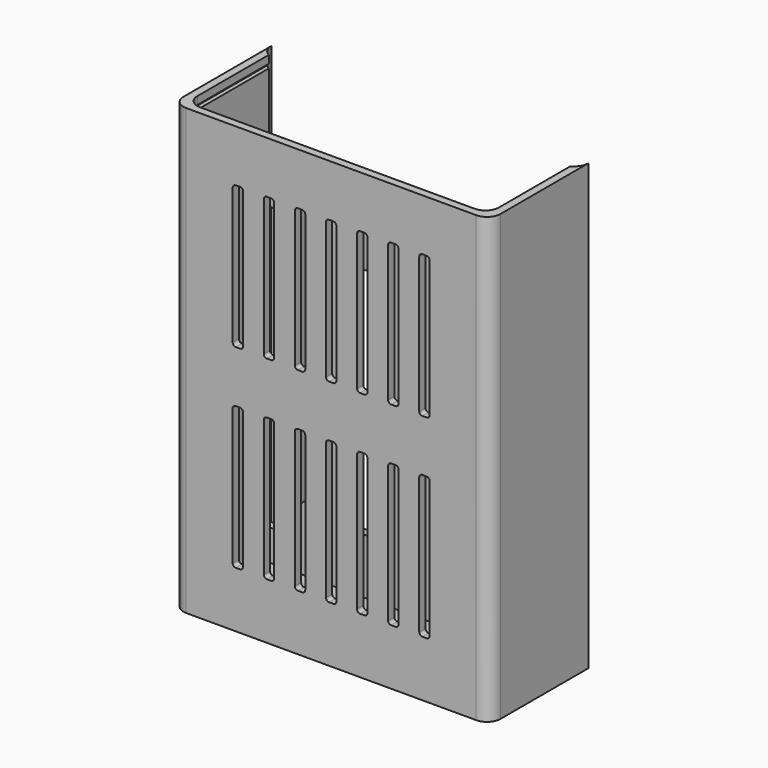
from build123d import *

# Parameters (mm, degrees)
PAD_DEPTH              = 85.8
POCKET_DEPTH           = 85
SKETCH002_W            = 7
SKETCH002_H            = 54.5
POCKET001_DEPTH        = 4.5
POCKET002_DEPTH        = 5
LINEARPATTERN_COUNT    = 7
LINEARPATTERN_PITCH    = 6
SKETCH004_W            = 58.2
SKETCH004_H            = 3
POCKET003_DEPTH        = 20
PAD001_DEPTH           = 6
LINEARPATTERN001_COUNT = 3
LINEARPATTERN001_PITCH = 18
POCKET004_DEPTH        = 5
PAD002_DEPTH           = 50
SKETCH009_W            = 19
SKETCH009_H            = 0.8
POCKET005_DEPTH        = 0.8
SKETCH010_W            = 19
SKETCH010_H            = 0.8
POCKET006_DEPTH        = 0.8


with BuildPart() as part:
    # Sketch → Pad (new body)
    with BuildSketch(Plane.XY.offset(-0.8)):
        with BuildLine():
            Line((-30.6, -5.8), (-30.6, -26.999987))
            ThreePointArc((-30.6, -26.999987), (-29.838478, -28.838464), (-28, -29.599987))
            Line((-28, -29.599987), (28, -29.599987))
            ThreePointArc((28, -29.599987), (29.838478, -28.838464), (30.6, -26.999987))
            Line((30.6, -26.999987), (30.6, -5.8))
            ThreePointArc((27.799996, -8.599987), (29.779893, -7.779892), (30.6, -5.8))
            Line((27.799996, -8.599987), (-27.799996, -8.599987))
            ThreePointArc((-30.6, -5.8), (-29.779893, -7.779892), (-27.799996, -8.599987))
        make_face()
    extrude(amount=PAD_DEPTH)

    # Sketch001 → Pocket (cut)
    with BuildSketch(Plane.XY.offset(85)):
        with BuildLine():
            Line((-29.1, -10.099987), (-29.1, -25.499987))
            ThreePointArc((-29.1, -25.499987), (-28.338478, -27.338464), (-26.5, -28.099987))
            Line((-26.5, -28.099987), (26.5, -28.099987))
            ThreePointArc((26.5, -28.099987), (28.338478, -27.338464), (29.1, -25.499987))
            Line((29.1, -25.499987), (29.1, -10.099987))
            Line((29.1, -10.099987), (-29.1, -10.099987))
        make_face()
    extrude(amount=-POCKET_DEPTH, mode=Mode.SUBTRACT)

    # Sketch002 → Pocket001 (cut, symmetric)
    with BuildSketch(Plane(origin=(0, -8.599987, -0.8), x_dir=(-1, 0, 0), z_dir=(0, 1, 0))):
        with Locations((24.9, 34.04)):
            Rectangle(SKETCH002_W, SKETCH002_H)
    extrude(amount=POCKET001_DEPTH, both=True, mode=Mode.SUBTRACT)

    # Sketch003 → Pocket002 (cut)
    with BuildSketch(Plane(origin=(0, -29.599987, -0.8), x_dir=(1, 0, 0), z_dir=(0, -1, 0))):
        with BuildLine():
            Line((17.572869, 75.790869), (18.427131, 75.790869))
            ThreePointArc((19, 75.218), (18.832211, 75.62308), (18.427131, 75.790869))
            Line((19, 75.218), (19, 48.8736))
            ThreePointArc((18.427131, 48.300731), (18.832211, 48.46852), (19, 48.8736))
            Line((18.427131, 48.300731), (17.572869, 48.300731))
            ThreePointArc((17, 48.8736), (17.167789, 48.46852), (17.572869, 48.300731))
            Line((17, 48.8736), (17, 75.218))
            ThreePointArc((17.572869, 75.790869), (17.167789, 75.62308), (17, 75.218))
        make_face()
        with BuildLine():
            Line((17.572869, 38.291469), (18.427131, 38.291469))
            ThreePointArc((19, 37.7186), (18.832211, 38.12368), (18.427131, 38.291469))
            Line((19, 37.7186), (19, 11.3742))
            ThreePointArc((18.427131, 10.801331), (18.832211, 10.96912), (19, 11.3742))
            Line((18.427131, 10.801331), (17.572869, 10.801331))
            ThreePointArc((17, 11.3742), (17.167789, 10.96912), (17.572869, 10.801331))
            Line((17, 11.3742), (17, 37.7186))
            ThreePointArc((17.572869, 38.291469), (17.167789, 38.12368), (17, 37.7186))
        make_face()
    pocket002 = extrude(amount=-POCKET002_DEPTH, mode=Mode.SUBTRACT)

    # LinearPattern: Pocket002 ×7
    with Locations(*[(-i * LINEARPATTERN_PITCH, 0, 0) for i in range(1, LINEARPATTERN_COUNT)]):
        add(pocket002, mode=Mode.SUBTRACT)

    # Sketch004 → Pocket003 (cut)
    with BuildSketch(Plane.XY.offset(85)):
        with Locations((0, -8.599987)):
            Rectangle(SKETCH004_W, SKETCH004_H)
    extrude(amount=-POCKET003_DEPTH, mode=Mode.SUBTRACT)

    # Sketch005 → Pad001 (new body)
    with BuildSketch(Plane(origin=(0, -10.099987, -0.8), x_dir=(1, 0, 0), z_dir=(0, -1, 0))):
        with BuildLine():
            Line((17.67, 56.57), (18.33, 56.57))
            ThreePointArc((18.9, 56), (18.733051, 56.403051), (18.33, 56.57))
            Line((18.9, 56), (18.9, 11.6228))
            ThreePointArc((18.33, 11.0528), (18.733051, 11.219749), (18.9, 11.6228))
            Line((18.33, 11.0528), (17.67, 11.0528))
            ThreePointArc((17.1, 11.6228), (17.266949, 11.219749), (17.67, 11.0528))
            Line((17.1, 11.6228), (17.1, 56))
            ThreePointArc((17.67, 56.57), (17.266949, 56.403051), (17.1, 56))
        make_face()
    pad001 = extrude(amount=-PAD001_DEPTH)

    # LinearPattern001: Pad001 ×3
    with Locations(*[(-i * LINEARPATTERN001_PITCH, 0, 0) for i in range(1, LINEARPATTERN001_COUNT)]):
        add(pad001)

    # Sketch006 → Pocket004 (cut)
    with BuildSketch(Plane(origin=(0, -8.599987, -0.8), x_dir=(-1, 0, 0), z_dir=(0, 1, 0))):
        with BuildLine():
            Line((-11.5, 56.5), (-7.5, 56.5))
            ThreePointArc((-5, 54), (-5.732233, 55.767767), (-7.5, 56.5))
            Line((-5, 54), (-5, 14))
            ThreePointArc((-7.5, 11.5), (-5.732233, 12.232233), (-5, 14))
            Line((-7.5, 11.5), (-11.5, 11.5))
            ThreePointArc((-14, 14), (-13.267767, 12.232233), (-11.5, 11.5))
            Line((-14, 14), (-14, 54))
            ThreePointArc((-11.5, 56.5), (-13.267767, 55.767767), (-14, 54))
        make_face()
        with BuildLine():
            Line((7.5, 56.5), (11.5, 56.5))
            ThreePointArc((14, 54), (13.267767, 55.767767), (11.5, 56.5))
            Line((14, 54), (14, 14))
            ThreePointArc((11.5, 11.5), (13.267767, 12.232233), (14, 14))
            Line((11.5, 11.5), (7.5, 11.5))
            ThreePointArc((5, 14), (5.732233, 12.232233), (7.5, 11.5))
            Line((5, 14), (5, 54))
            ThreePointArc((7.5, 56.5), (5.732233, 55.767767), (5, 54))
        make_face()
    extrude(amount=-POCKET004_DEPTH, mode=Mode.SUBTRACT)

    # Sketch007 → Pad002 (new body)
    with BuildSketch(Plane.XY.offset(65)):
        Polygon((18.375, -10.099987), (21.375, -10.099987), (21.375, -14.549987), (17.875, -14.549987), (17.875, -13.049987), (18.675, -13.049987), (18.675, -10.899987), (17.875, -10.899987), (17.875, -10.099987), align=None)
        Polygon((-17.875, -14.549987), (-21.375, -14.549987), (-21.375, -10.099987), (-18.375, -10.099987), (-17.875, -10.099987), (-17.875, -10.899987), (-18.675, -10.899987), (-18.675, -13.049987), (-17.875, -13.049987), align=None)
    extrude(amount=-PAD002_DEPTH)

    # Sketch009 → Pocket005 (cut)
    with BuildSketch(Plane(origin=(-29.1, 0, -0.8), x_dir=(0, 1, 0), z_dir=(1, 0, 0))):
        with Locations((-15.999987, 83.9)):
            Rectangle(SKETCH009_W, SKETCH009_H)
    extrude(amount=-POCKET005_DEPTH, mode=Mode.SUBTRACT)

    # Sketch010 → Pocket006 (cut)
    with BuildSketch(Plane(origin=(29.1, 0, -0.8), x_dir=(0, -1, 0), z_dir=(-1, 0, 0))):
        with Locations((18.599987, 35.8186)):
            Rectangle(SKETCH010_W, SKETCH010_H)
    extrude(amount=-POCKET006_DEPTH, mode=Mode.SUBTRACT)


solid = part.part
